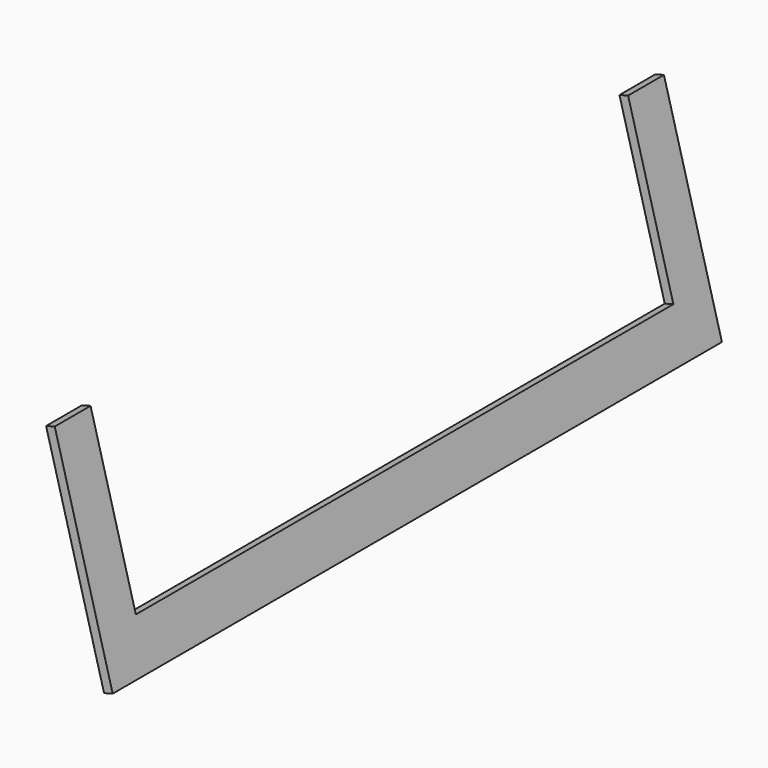
from build123d import *

# Parameters (mm, degrees)
BOX020_W               = 24
BOX020_H               = 150
BOX020_DEPTH           = 40
BOX020_PLACEMENT_ANGLE = 15
BOX001_W               = 2
BOX001_H               = 170
BOX001_DEPTH           = 50
BOX001_PLACEMENT_ANGLE = 15


with BuildPart() as face001:
    # Box020 → Box020 (new body)
    with BuildSketch(Plane.XY):
        with Locations((12, 75)):
            Rectangle(BOX020_W, BOX020_H)
    extrude(amount=BOX020_DEPTH)


with BuildPart() as face001_1:
    # Box020 placement: moved
    add(face001.part.moved(Location((164, 10, 0))).rotate(Axis((164, 10, 0), (0, -1, 0)), BOX020_PLACEMENT_ANGLE))


with BuildPart() as cut005:
    # Box001 → Box001 (new body)
    with BuildSketch(Plane.XY):
        with Locations((1, 85)):
            Rectangle(BOX001_W, BOX001_H)
    extrude(amount=BOX001_DEPTH)


with BuildPart() as cut005_1:
    # Box001 placement: moved
    add(cut005.part.moved(Location((169, 0, -10))).rotate(Axis((169, 0, -10), (0, -1, 0)), BOX001_PLACEMENT_ANGLE))

    # Cut005: cut Face001
    add(face001_1.part, mode=Mode.SUBTRACT)


solid = cut005_1.part
